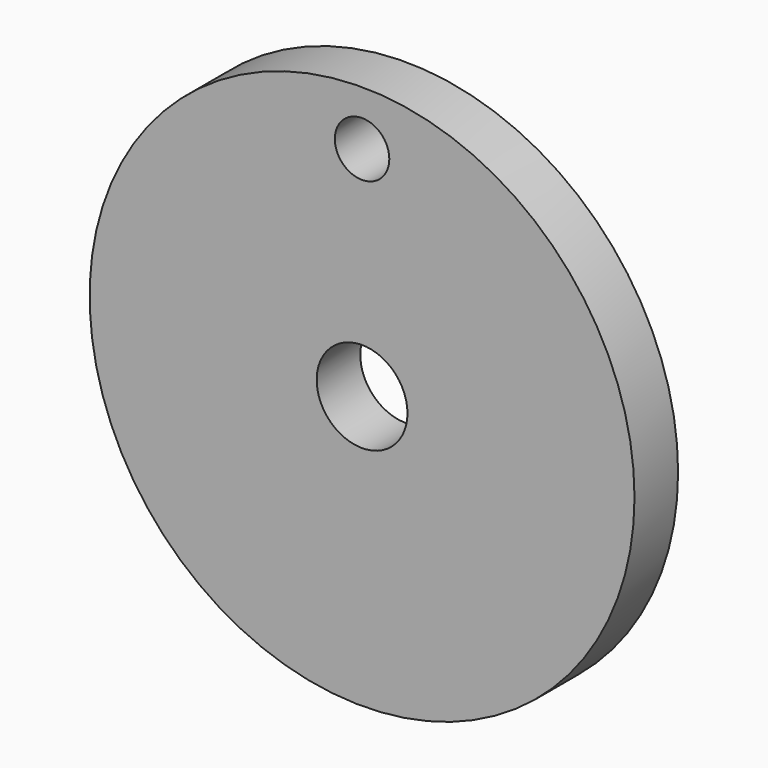
from build123d import *

# Parameters (mm, degrees)
F0_R     = 15
F1_DEPTH = 3
F2_R     = 1.5
F3_DEPTH = 3
F4_R     = 2.5
F5_DEPTH = 3


with BuildPart() as f1:
    # F0 (on Front) → F1 (new body)
    with BuildSketch(Plane.XZ):
        Circle(F0_R)
    extrude(amount=F1_DEPTH)

    # F2 (on face) → F3 (cut, through all)
    with BuildSketch(Plane.XZ.offset(3)):
        with Locations((0, 12)):
            Circle(F2_R)
    extrude(amount=-F3_DEPTH, mode=Mode.SUBTRACT)

    # F4 (on face) → F5 (cut, through all)
    with BuildSketch(Plane.XZ.offset(3)):
        Circle(F4_R)
    extrude(amount=-F5_DEPTH, mode=Mode.SUBTRACT)


solid = f1.part
